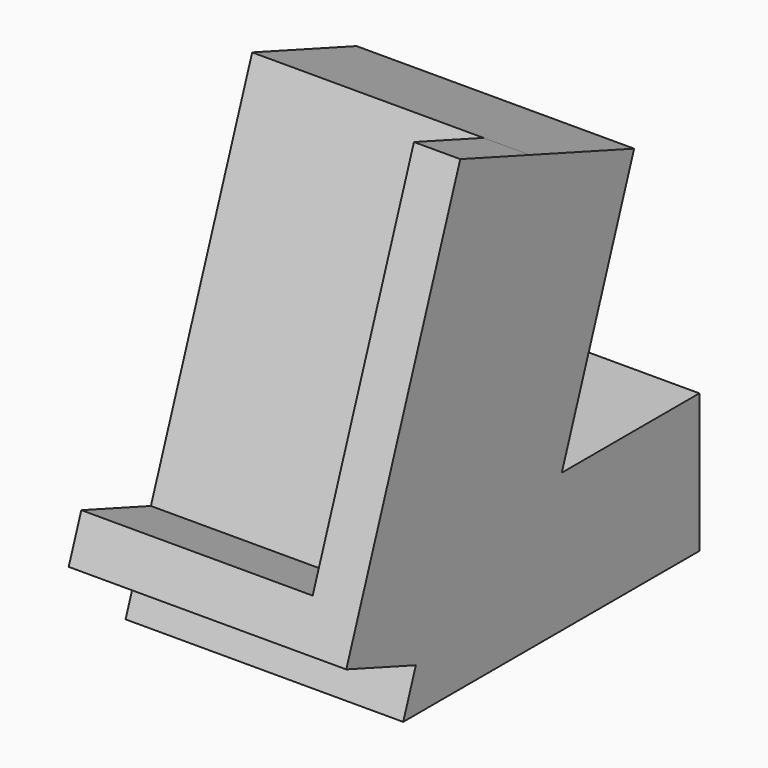
from build123d import *

# Parameters (mm, degrees)
F1_DEPTH = 38.1
F3_DEPTH = 12.7


with BuildPart() as f1:
    # F0 (on Right) → F1 (new body)
    with BuildSketch(Plane.YZ):
        Polygon((21.7182791012, 59.6704814199), (0, 0), (50.8, 0), (50.8, 19.05), (27.2062195284, 19.05), (39.6194235272, 53.1549976896), align=None)
    extrude(amount=-F1_DEPTH)

    # F2 (on face) → F3 (join)
    with BuildSketch(Plane(origin=(0, 0, 0), x_dir=(1, 0, 0), z_dir=(0, -0.9396926208, 0.3420201433))):
        Polygon((0, 6.35), (0, 63.5), (-6.35, 63.5), (-6.35, 12.7), (-38.1, 12.7), (-38.1, 6.35), align=None)
    extrude(amount=F3_DEPTH)


solid = f1.part
